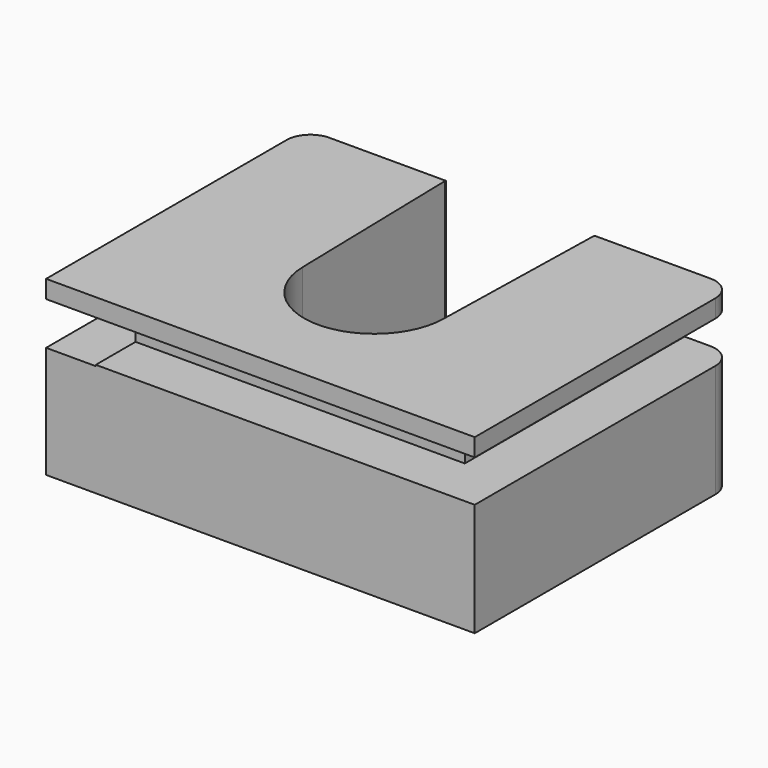
from build123d import *

# Parameters (mm, degrees)
F1_DEPTH = 14.5
F2_W     = 12.5
F2_H     = 14.5
F3_DEPTH = 0.1
F4_W     = 2
F4_H     = 3.5
F4_W_2   = 25.25
F5_DEPTH = 4.175
F6_W     = 2
F6_H     = 3.6
F6_W_2   = 25.25
F7_DEPTH = 4.175
F8_W     = 27.65
F8_H     = 3.5
F9_DEPTH = 4.175


with BuildPart() as f1:
    # F0 (on Top) → F1 (new body)
    with BuildSketch(Plane.XY):
        with BuildLine():
            Line((-18, 11.625), (-18, -13.625))
            Line((-18, -13.625), (18, -13.625))
            Line((18, -13.625), (18, 11.625))
            ThreePointArc((18, 11.625), (17.4142135624, 13.0392135624), (16, 13.625))
            Line((16, 13.625), (-16, 13.625))
            ThreePointArc((-16, 13.625), (-17.4142135624, 13.0392135624), (-18, 11.625))
        make_face()
        with BuildLine():
            ThreePointArc((5.8984604593, -1.8097746648), (0, -7.575), (-5.8984604593, -1.8097746648))
            Line((-5.8984604593, -1.8097746648), (-6.25, 13.5754765943))
            Line((-6.25, 13.5754765943), (6.25, 13.5754765943))
            Line((6.25, 13.5754765943), (5.8984604593, -1.8097746648))
        make_face(mode=Mode.SUBTRACT)
    extrude(amount=F1_DEPTH)

    # F2 (on face) → F3 (cut)
    with BuildSketch(Plane(origin=(0, 13.625, 0), x_dir=(-1, 0, 0), z_dir=(0, 1, 0))):
        with Locations((-0.0153454952, 7.25)):
            Rectangle(F2_W, F2_H)
    extrude(amount=-F3_DEPTH, mode=Mode.SUBTRACT)

    # F4 (on face) → F5 (cut)
    with BuildSketch(Plane.YZ.offset(18)):
        with Locations((12.625, 11.25)):
            Rectangle(F4_W, F4_H)
        with Locations((-1, 11.25)):
            Rectangle(F4_W_2, F4_H)
    extrude(amount=-F5_DEPTH, mode=Mode.SUBTRACT)

    # F6 (on face) → F7 (cut)
    with BuildSketch(Plane(origin=(-18, 0, 0), x_dir=(0, -1, 0), z_dir=(-1, 0, 0))):
        with Locations((-12.625, 11.2)):
            Rectangle(F6_W, F6_H)
        with Locations((1, 11.2)):
            Rectangle(F6_W_2, F6_H)
    extrude(amount=-F7_DEPTH, mode=Mode.SUBTRACT)

    # F8 (on face) → F9 (cut)
    with BuildSketch(Plane.XZ.offset(13.625)):
        with Locations((0, 11.25)):
            Rectangle(F8_W, F8_H)
    extrude(amount=-F9_DEPTH, mode=Mode.SUBTRACT)


solid = f1.part
